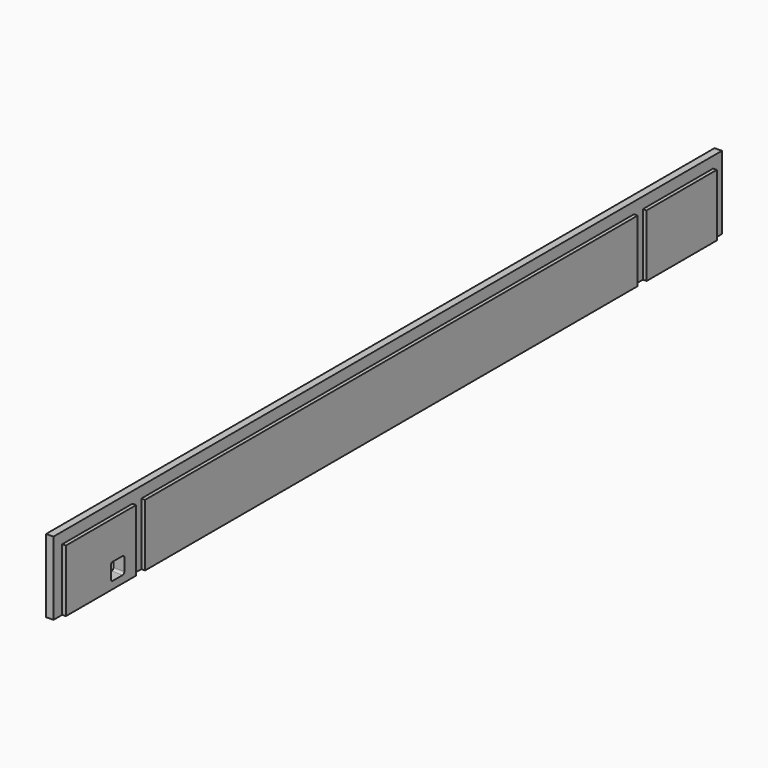
from build123d import *

# Parameters (mm, degrees)
F1_DEPTH = 50
F3_DEPTH = 5
F6_DEPTH = 15


with BuildPart() as f1:
    # F0 (on Top) → F1 (new body, symmetric)
    with BuildSketch(Plane.XY):
        Polygon((0, -555), (0, 0), (-15, 0), (-15, -570), (-5, -570), (-5, -555), align=None)
    extrude(amount=F1_DEPTH, both=True)

    # F2 (on face) → F3 (cut)
    with BuildSketch(Plane.YZ):
        Polygon((-435.2, 34.8), (-435.2, -50), (-420, -50), (-420, 34.8), (0, 34.8), (0, 50), (-555, 50), (-555, 34.8), align=None)
    extrude(amount=-F3_DEPTH, mode=Mode.SUBTRACT)

    # F4: F1 across face


with BuildPart() as f1_1:
    add(f1.part)
    add(f1.part.mirror(Plane(origin=(-7.766854, 0, -2.262921), x_dir=(-1, 0, 0), z_dir=(0, 1, 0))))

    # F5 (on face) → F6 (cut, through all)
    with BuildSketch(Plane.YZ):
        with BuildLine():
            Line((-478.2, -20), (-478.2, -37))
            ThreePointArc((-478.2, -37), (-477.32132, -39.12132), (-475.2, -40))
            Line((-475.2, -40), (-458.2, -40))
            ThreePointArc((-458.2, -40), (-456.07868, -39.12132), (-455.2, -37))
            Line((-455.2, -37), (-455.2, -20))
            ThreePointArc((-455.2, -20), (-456.07868, -17.87868), (-458.2, -17))
            Line((-458.2, -17), (-475.2, -17))
            ThreePointArc((-475.2, -17), (-477.32132, -17.87868), (-478.2, -20))
        make_face()
    extrude(amount=-F6_DEPTH, mode=Mode.SUBTRACT)


solid = f1_1.part
